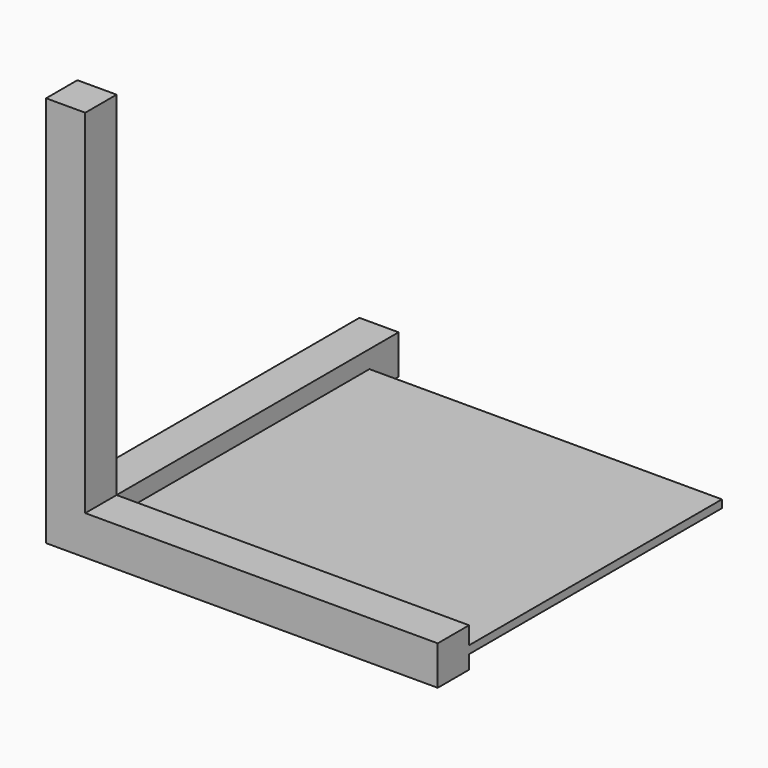
from build123d import *

# Parameters (mm, degrees)
F0_W     = 200
F0_H     = 20
F1_DEPTH = 20
F2_W     = 20
F2_H     = 20
F3_DEPTH = 180
F4_W     = 20
F4_H     = 20
F5_DEPTH = 180
F6_W     = 180
F6_H     = 4
F7_DEPTH = 161.4


with BuildPart() as f1:
    # F0 (on Top) → F1 (new body)
    with BuildSketch(Plane.XY):
        with Locations((100, 10)):
            Rectangle(F0_W, F0_H)
    extrude(amount=F1_DEPTH)

    # F2 (on face) → F3 (join)
    with BuildSketch(Plane.XY.offset(20)):
        with Locations((10, 10)):
            Rectangle(F2_W, F2_H)
    extrude(amount=F3_DEPTH)

    # F4 (on face) → F5 (join)
    with BuildSketch(Plane(origin=(0, 20, 0), x_dir=(-1, 0, 0), z_dir=(0, 1, 0))):
        with Locations((-10, 10)):
            Rectangle(F4_W, F4_H)
    extrude(amount=F5_DEPTH)

    # F6 (on face) → F7 (join)
    with BuildSketch(Plane(origin=(0, 20, 0), x_dir=(-1, 0, 0), z_dir=(0, 1, 0))):
        with Locations((-110, 9)):
            Rectangle(F6_W, F6_H)
    extrude(amount=F7_DEPTH)


solid = f1.part
